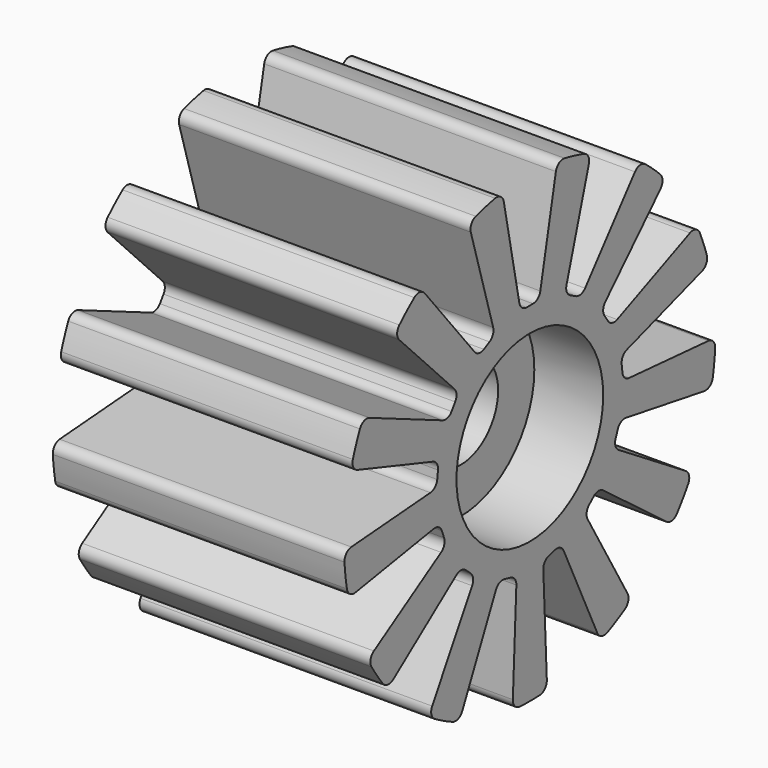
from build123d import *

# Parameters (mm, degrees)
F3_DEPTH = 35
F4_COUNT = 13
F5_R     = 1


with BuildPart() as f1:
    # F0 (on Top) → F1 (revolve)
    with BuildSketch(Plane.XY):
        Polygon((-8.284023578, 9.8717947562), (-8.284023578, 5), (8.284023578, 5), (8.284023578, 9.8717947562), (15.7001973844, 9.8717947562), (15.7001973844, 25), (-15.7001973844, 25), (-15.7001973844, 9.8717947562), align=None)
    revolve(axis=Axis((-9.4565218315, 0, 0), (-1, 0, 0)))

    # F2 (on face) → F3 (cut)
    with BuildSketch(Plane.YZ.offset(15.7001973844)):
        with BuildLine():
            Line((0, 25), (-3.75, 25))
            Line((-3.75, 25), (-1.410776773, 13.3038838649))
            ThreePointArc((-1.410776773, 13.3038838649), (-1.0641850029, 12.7266578587), (-0.4301960973, 12.5))
            Line((-0.4301960973, 12.5), (0, 12.5))
            Line((0, 12.5), (0, 25))
        make_face()
        with BuildLine():
            Line((3.75, 25), (0, 25))
            Line((0, 25), (0, 12.5))
            Line((0, 12.5), (0.4301960973, 12.5))
            ThreePointArc((0.4301960973, 12.5), (1.0641850029, 12.7266578587), (1.410776773, 13.3038838649))
            Line((1.410776773, 13.3038838649), (3.75, 25))
        make_face()
    f3 = extrude(amount=-F3_DEPTH, mode=Mode.SUBTRACT)

    # F4: F3 ×13 about axis
    f4_axis = Axis((15.7001973844, 0, 0), (-1, 0, 0))
    for i in range(1, F4_COUNT):
        add(f3.rotate(f4_axis, i * 360 / F4_COUNT), mode=Mode.SUBTRACT)

    # F5
    f5_edges = [f1.edges().sort_by_distance(p)[0] for p in [
        (0, 14.76231, 20.17608),
        (0, -3.695084, 24.725419),
        (0, 3.695084, 24.725419),
        (0, -14.76231, 20.17608),
        (0, -8.218641, 23.610463),
        (0, -22.447668, 11.004645),
        (0, -18.249574, 17.086633),
        (0, -24.990536, -0.687823),
        (0, -24.09975, 6.648462),
        (0, -21.808374, -12.222718),
        (0, 22.447668, 11.004645),
        (0, 8.218641, 23.610463),
        (0, 24.990536, -0.687823),
        (0, 18.249574, 17.086633),
        (0, 21.808374, -12.222718),
        (0, 24.09975, 6.648462),
        (0, 24.428963, -5.312791),
        (0, 13.630176, -20.957536),
        (0, 19.161796, -16.056948),
        (0, 2.329469, -24.891235),
        (0, 9.504892, -23.122652),
        (0, -9.504892, -23.122652),
        (0, -2.329469, -24.891235),
        (0, -19.161796, -16.056948),
        (0, -13.630176, -20.957536),
        (0, -24.428963, -5.312791),
    ]]
    fillet(f5_edges, radius=F5_R)


solid = f1.part
